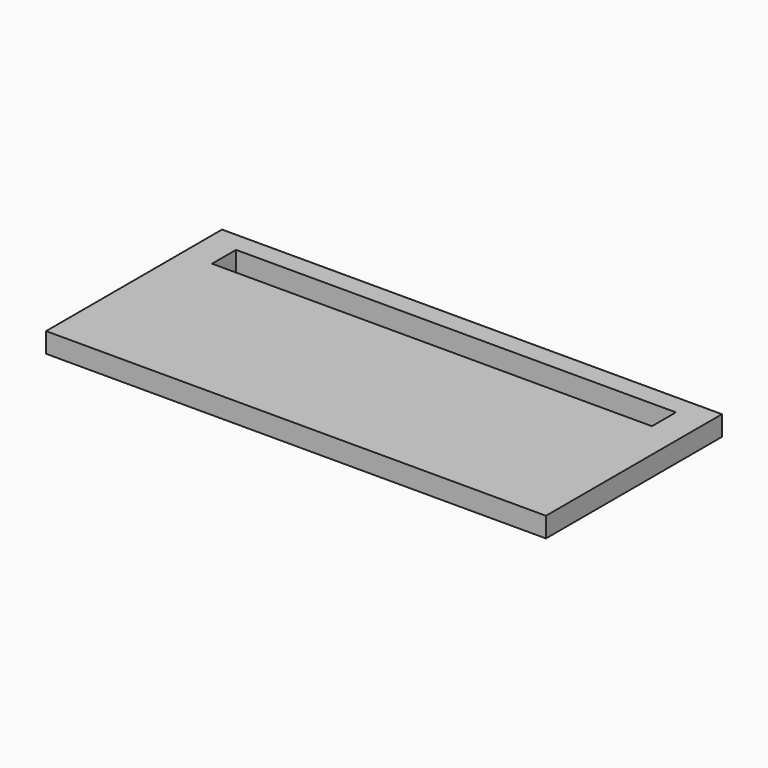
from build123d import *

# Parameters (mm, degrees)
BOX141_W     = 22
BOX141_H     = 1.5
BOX141_DEPTH = 2
BOX140_W     = 25
BOX140_H     = 11
BOX140_DEPTH = 1


with BuildPart() as longledhole008:
    # Box141 → Box141 (new body)
    with BuildSketch(Plane(origin=(1.5, 8.5, 0), x_dir=(1, 0, 0), z_dir=(0, 0, 1))):
        with Locations((11, 0.75)):
            Rectangle(BOX141_W, BOX141_H)
    extrude(amount=BOX141_DEPTH)


with BuildPart() as cut025:
    # Box140 → Box140 (new body)
    with BuildSketch(Plane.XY):
        with Locations((12.5, 5.5)):
            Rectangle(BOX140_W, BOX140_H)
    extrude(amount=BOX140_DEPTH)

    # Cut025: cut LongLedHole008
    add(longledhole008.part, mode=Mode.SUBTRACT)


solid = cut025.part
